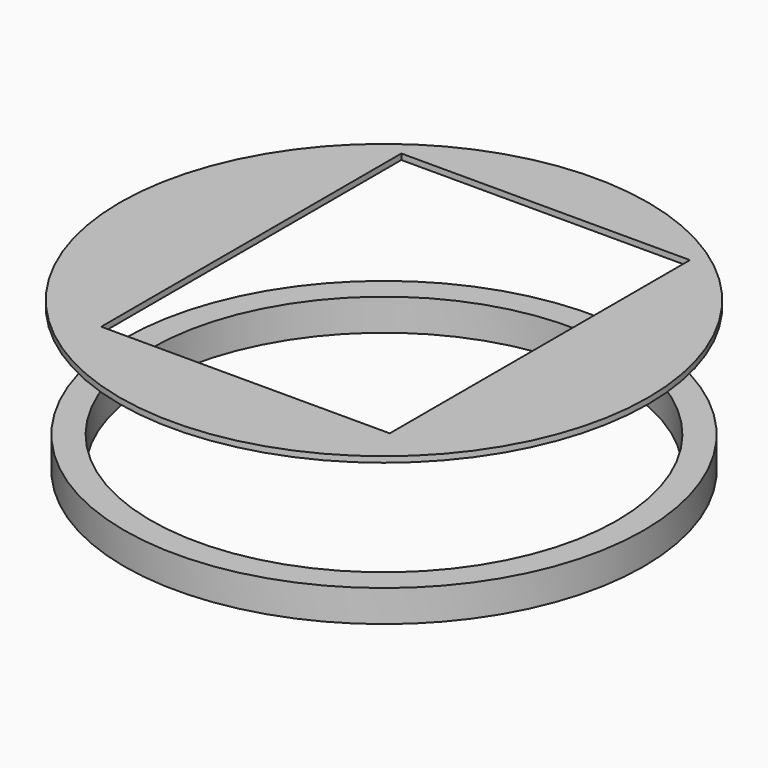
from build123d import *

# Parameters (mm, degrees)
F0_R     = 45.72
F1_DEPTH = 5.588
F2_R     = 41.021
F3_DEPTH = 5.589
F5_R     = 46.489719
F6_DEPTH = 1.016
F7_W     = 50.8
F7_H     = 66.04
F8_DEPTH = 12.7


with BuildPart() as f1:
    # F0 (on Top) → F1 (new body)
    with BuildSketch(Plane.XY):
        Circle(F0_R)
    extrude(amount=F1_DEPTH)

    # F2 (on face) → F3 (cut, through all)
    with BuildSketch(Plane.XY.offset(5.588)):
        Circle(F2_R)
    extrude(amount=-F3_DEPTH, mode=Mode.SUBTRACT)


with BuildPart() as f6:
    # F5 (on offset) → F6 (new body)
    with BuildSketch(Plane.XY.offset(25.4)):
        Circle(F5_R)
    extrude(amount=F6_DEPTH)

    # F7 (on face) → F8 (cut)
    with BuildSketch(Plane.XY.offset(26.416)):
        with Locations((0, 2.54)):
            Rectangle(F7_W, F7_H)
    extrude(amount=-F8_DEPTH, mode=Mode.SUBTRACT)


solid = Compound([f1.part, f6.part])
